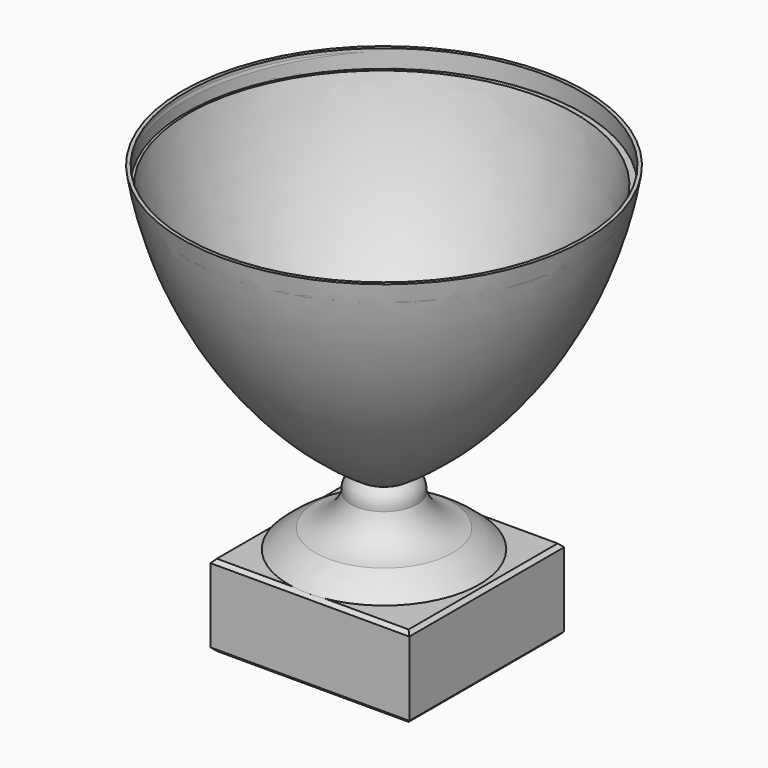
from build123d import *

# Parameters (mm, degrees)
F0_W     = 11000
F0_H     = 4500
F1_DEPTH = 10700
F7_R     = 10945.7766919198
F8_DEPTH = 1000
F9_SIZE  = 200
F10_SIZE = 200


with BuildPart() as f1:
    # F0 (on Front) → F1 (new body)
    with BuildSketch(Plane.XZ):
        with Locations((220.401763916, 2273.4528705478)):
            Rectangle(F0_W, F0_H)
    extrude(amount=-F1_DEPTH)

    # F9
    f9_edges = [f1.edges().sort_by_distance(p)[0] for p in [
        (5720.401764, 5350, 4523.452871),
        (220.401764, 0, 4523.452871),
        (220.401764, 10700, 4523.452871),
        (-5279.598236, 5350, 4523.452871),
    ]]
    chamfer(f9_edges, length=F9_SIZE)

    # F10
    f10_edges = [f1.edges().sort_by_distance(p)[0] for p in [
        (5720.401764, 5350, 23.452871),
        (220.401764, 10700, 23.452871),
        (-5279.598236, 5350, 23.452871),
        (220.401764, 0, 23.452871),
    ]]
    chamfer(f10_edges, length=F10_SIZE)


with BuildPart() as f4:
    # F3 (on offset) → F4 (revolve)
    with BuildSketch(Plane.XZ.offset(-5400)):
        with BuildLine():
            Line((0, 23210.8431816101), (-11139.5139415628, 23210.8431816101))
            ThreePointArc((-11139.5139415628, 23210.8431816101), (-7840.9916650951, 14715.4963302233), (-1391.8237686157, 8276.5988487641))
            ThreePointArc((-1391.8237686157, 8276.5988487641), (-695.9118843079, 8189.8528057998), (0, 8276.5988487641))
            Line((0, 8276.5988487641), (0, 23210.8431816101))
        make_face()
        with BuildLine():
            ThreePointArc((0, 8276.5988487641), (-695.9118843079, 8189.8528057998), (-1391.8237686157, 8276.5988487641))
            ThreePointArc((-1391.8237686157, 8276.5988487641), (-1761.6785391899, 7852.4773028307), (-1831.4999341965, 7294.0897941589))
            ThreePointArc((-1831.4999341965, 7294.0897941589), (-2573.6378349626, 6161.4008029566), (-3792.1268939972, 5570.6069069509))
            ThreePointArc((-3792.1268939972, 5570.6069069509), (-4570.0340406157, 5095.5701119331), (-5279.598236084, 4523.4528705478))
            Line((-5279.598236084, 4523.4528705478), (0, 4540.1316756694))
            Line((0, 4540.1316756695), (0, 8276.5988487641))
        make_face()
    revolve(axis=Axis((0, 5400, 11608.5826453753), (0, 0, -1)))

    # F5 (on offset) → F6 (revolve, cut)
    with BuildSketch(Plane.XZ.offset(-5400)):
        with BuildLine():
            Line((-1311.5319013596, 8391.8018341064), (-124.6130913496, 8391.8018341064))
            Line((-124.6130913496, 8391.8018341064), (-124.6130913496, 23040.7104492188))
            Line((-124.6130913496, 23040.7104492188), (-10986.8049621582, 23040.7104492188))
            ThreePointArc((-10986.8049621582, 23040.7104492187), (-7653.9646206582, 14722.3722687418), (-1311.5319013596, 8391.8018341064))
        make_face()
    revolve(axis=Axis((-124.6130913496, 5400, 15716.2561416626), (0, 0, -1)), mode=Mode.SUBTRACT)

    # F7 (on face) → F8 (cut)
    with BuildSketch(Plane.XY.offset(23210.8431816101)):
        with Locations((0, 5400)):
            Circle(F7_R)
    extrude(amount=-F8_DEPTH, mode=Mode.SUBTRACT)


solid = Compound([f1.part, f4.part])
